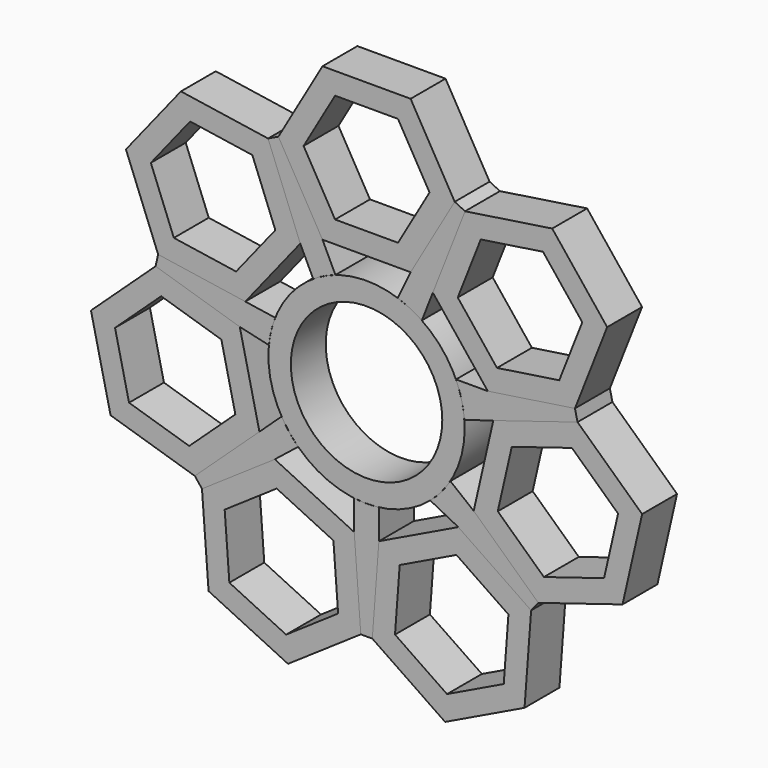
from build123d import *

# Parameters (mm, degrees)
F0_R     = 14.2875
F0_R_2   = 11.0236
F2_DEPTH = 6.35


with BuildPart() as f2:
    # F0 (on Front) → F2 (new body)
    with BuildSketch(Plane.XZ):
        Circle(F0_R)
        Circle(F0_R_2, mode=Mode.SUBTRACT)
    extrude(amount=F2_DEPTH)


with BuildPart() as f2b:
    # F0 (on Front) → F2, piece 2 (new body)
    with BuildSketch(Plane.XZ):
        Polygon((-6.4158048664, 17.4625), (6.4158048664, 17.4625), (12.8316097327, 28.575), (6.4158048664, 39.6875), (-6.4158048664, 39.6875), (-12.8316097327, 28.575), align=None)
        Polygon((9.1654355234, 28.575), (4.5827177617, 20.6375), (-4.5827177617, 20.6375), (-9.1654355234, 28.575), (-4.5827177617, 36.5125), (4.5827177617, 36.5125), align=None, mode=Mode.SUBTRACT)
    extrude(amount=F2_DEPTH)


with BuildPart() as f2c:
    # F0 (on Front) → F2, piece 3 (new body)
    with BuildSketch(Plane.XZ):
        Polygon((-9.6525433577, 15.9037688949), (-14.3404568017, 27.8483775479), (-27.0287480556, 29.7608297412), (-35.0291258653, 19.7286732814), (-30.3412124213, 7.7840646283), (-17.6529211675, 5.8716124351), align=None)
        Polygon((-16.6262790331, 24.9820471308), (-13.2777694302, 16.4501838072), (-18.9923250086, 9.2843577645), (-28.0553901899, 10.6503950454), (-31.4038997928, 19.182258369), (-25.6893442144, 26.3480844117), align=None, mode=Mode.SUBTRACT)
    extrude(amount=F2_DEPTH)


with BuildPart() as f2d:
    # F0 (on Front) → F2, piece 4 (new body)
    with BuildSketch(Plane.XZ):
        Polygon((-18.4523295574, 2.3691754341), (-30.7138668725, 6.1513587989), (-40.1201024057, -2.5763523231), (-37.2648006238, -15.0862468097), (-25.0032633087, -18.8684301745), (-15.5970277755, -10.1407190525), align=None)
        Polygon((-29.8980663634, 2.5771032312), (-21.139825424, -0.124456315), (-19.1003241513, -9.060095234), (-25.8190638178, -15.2941746069), (-34.5773047571, -12.5926150606), (-36.6168060299, -3.6569761416), align=None, mode=Mode.SUBTRACT)
    extrude(amount=F2_DEPTH)


with BuildPart() as f2e:
    # F0 (on Front) → F2, piece 5 (new body)
    with BuildSketch(Plane.XZ):
        Polygon((-13.3571352415, -12.9494554509), (-23.9591087396, -20.1777585906), (-23.0002013434, -32.97348854), (-11.4393204491, -38.5409153497), (-0.837346951, -31.31261221), (-1.7962543472, -18.5168822606), align=None)
        Polygon((-20.6559999126, -21.7684519648), (-13.0831616997, -16.6053782936), (-4.8253896324, -20.5821117291), (-4.1404557779, -29.7219188358), (-11.7132939909, -34.8849925071), (-19.9710660582, -30.9082590715), align=None, mode=Mode.SUBTRACT)
    extrude(amount=F2_DEPTH)


with BuildPart() as f2f:
    # F0 (on Front) → F2, piece 6 (new body)
    with BuildSketch(Plane.XZ):
        Polygon((1.7962543472, -18.5168822606), (0.837346951, -31.31261221), (11.4393204491, -38.5409153497), (23.0002013434, -32.97348854), (23.9591087396, -20.1777585906), (13.3571352415, -12.9494554509), align=None)
        Polygon((4.1404557779, -29.7219188358), (4.8253896324, -20.5821117291), (13.0831616997, -16.6053782936), (20.6559999126, -21.7684519648), (19.9710660582, -30.9082590715), (11.7132939909, -34.8849925071), align=None, mode=Mode.SUBTRACT)
    extrude(amount=F2_DEPTH)


with BuildPart() as f2g:
    # F0 (on Front) → F2, piece 7 (new body)
    with BuildSketch(Plane.XZ):
        Polygon((15.5970277755, -10.1407190525), (25.0032633087, -18.8684301745), (37.2648006238, -15.0862468097), (40.1201024057, -2.5763523231), (30.7138668725, 6.1513587989), (18.4523295574, 2.3691754341), align=None)
        Polygon((25.8190638178, -15.2941746069), (19.1003241513, -9.060095234), (21.139825424, -0.124456315), (29.8980663634, 2.5771032312), (36.6168060299, -3.6569761416), (34.5773047571, -12.5926150606), align=None, mode=Mode.SUBTRACT)
    extrude(amount=F2_DEPTH)


with BuildPart() as f2h:
    # F0 (on Front) → F2, piece 8 (new body)
    with BuildSketch(Plane.XZ):
        Polygon((17.6529211675, 5.8716124351), (30.3412124213, 7.7840646283), (35.0291258653, 19.7286732814), (27.0287480556, 29.7608297412), (14.3404568017, 27.8483775479), (9.6525433577, 15.9037688949), align=None)
        Polygon((28.0553901899, 10.6503950454), (18.9923250086, 9.2843577645), (13.2777694302, 16.4501838072), (16.6262790331, 24.9820471308), (25.6893442144, 26.3480844117), (31.4038997928, 19.182258369), align=None, mode=Mode.SUBTRACT)
    extrude(amount=F2_DEPTH)


with BuildPart() as f2i:
    # F1 (on Front) → F2, piece 9 (new body)
    with BuildSketch(Plane.XZ):
        Polygon((-18.4523295574, 2.3691754341), (-17.6529211675, 5.8716124351), (-23.9970658214, 6.827838385), (-30.3412124213, 7.7840646283), (-30.7138668725, 6.1513587989), (-24.583098291, 4.26026714), align=None)
        with BuildLine():
            ThreePointArc((-14.2184648482, 1.4028234428), (-13.8914038987, 3.3408911946), (-13.3014573203, 5.2157347907))
            Line((-13.3014573203, 5.2157347907), (-17.6529211675, 5.8716124351))
            Line((-17.6529211675, 5.8716124351), (-18.4523295574, 2.3691754341))
            Line((-18.4523295574, 2.3691754341), (-14.2184648482, 1.4028234428))
        make_face()
    extrude(amount=F2_DEPTH)


with BuildPart() as f2j:
    # F1 (on Front) → F2, piece 10 (new body)
    with BuildSketch(Plane.XZ):
        Polygon((-6.4158048664, 17.4625), (-9.6237072576, 23.0187499274), (-12.8316097327, 28.575), (-14.3404568017, 27.8483775479), (-11.9965000414, 21.8760731238), (-9.6525433577, 15.9037688949), align=None)
        with BuildLine():
            ThreePointArc((-7.768296299, 11.991089561), (-6.1991139226, 12.8725927002), (-4.5315578077, 13.5498206662))
            Line((-4.5315578077, 13.5498206662), (-6.4158048664, 17.4625))
            Line((-6.4158048664, 17.4625), (-9.6525433577, 15.9037688949))
            Line((-9.6525433577, 15.9037688949), (-7.768296299, 11.991089561))
        make_face()
    extrude(amount=F2_DEPTH)


with BuildPart() as f2k:
    # F1 (on Front) → F2, piece 11 (new body)
    with BuildSketch(Plane.XZ):
        Polygon((9.6525433577, 15.9037688949), (11.9965000952, 21.8760732609), (14.3404568017, 27.8483775479), (12.8316097327, 28.575), (9.623707221, 23.018749864), (6.4158048664, 17.4625), align=None)
        with BuildLine():
            Line((8.0448181359, 11.8073518373), (9.6525433577, 15.9037688949))
            Line((9.6525433577, 15.9037688949), (6.4158048664, 17.4625))
            Line((6.4158048664, 17.4625), (4.5315578077, 13.5498206662))
            ThreePointArc((4.5315578077, 13.5498206662), (6.3482562467, 12.7996991713), (8.0448181359, 11.8073518373))
        make_face()
    extrude(amount=F2_DEPTH)


with BuildPart() as f2l:
    # F1 (on Front) → F2, piece 12 (new body)
    with BuildSketch(Plane.XZ):
        Polygon((17.6529211675, 5.8716124351), (18.4523295574, 2.3691754341), (24.583098204, 4.2602671131), (30.7138668725, 6.1513587989), (30.3412124213, 7.7840646283), (23.9970657427, 6.8278383732), align=None)
        with BuildLine():
            Line((14.2472214565, 1.0720713682), (18.4523295574, 2.3691754341))
            Line((18.4523295574, 2.3691754341), (17.6529211675, 5.8716124351))
            Line((17.6529211675, 5.8716124351), (13.0252379503, 5.8716124351))
            ThreePointArc((13.0252379503, 5.8716124351), (13.8457812758, 3.5251946205), (14.2472214565, 1.0720713682))
        make_face()
    extrude(amount=F2_DEPTH)


with BuildPart() as f2m:
    # F1 (on Front) → F2, piece 13 (new body)
    with BuildSketch(Plane.XZ):
        Polygon((25.0032633087, -18.8684301745), (20.3001454143, -14.5045744949), (15.5970277755, -10.1407190525), (13.3571352415, -12.9494554509), (18.6581221223, -16.5636071106), (23.9591087396, -20.1777585906), align=None)
        with BuildLine():
            Line((13.3571352415, -12.9494554509), (15.5970277755, -10.1407190525))
            Line((15.5970277755, -10.1407190525), (12.2017318969, -7.4330609419))
            ThreePointArc((12.2017318969, -7.4330609419), (10.8775349791, -9.2634706794), (9.2813687339, -10.8622672898))
            Line((9.2813687339, -10.8622672898), (13.3571352415, -12.9494554509))
        make_face()
    extrude(amount=F2_DEPTH)


with BuildPart() as f2n:
    # F1 (on Front) → F2, piece 14 (new body)
    with BuildSketch(Plane.XZ):
        Polygon((0.837346951, -31.31261221), (1.3168006488, -24.9147472398), (1.7962543472, -18.5168822606), (-1.7962543472, -18.5168822606), (-1.3168006489, -24.9147472385), (-0.837346951, -31.31261221), align=None)
        with BuildLine():
            Line((-1.7962543472, -18.5168822606), (1.7962543472, -18.5168822606))
            Line((1.7962543472, -18.5168822606), (1.7962543472, -14.1741358315))
            ThreePointArc((1.7962543472, -14.1741358315), (0, -14.2875), (-1.7962543472, -14.1741358315))
            Line((-1.7962543472, -14.1741358315), (-1.7962543472, -18.5168822606))
        make_face()
    extrude(amount=F2_DEPTH)


with BuildPart() as f2o:
    # F1 (on Front) → F2, piece 15 (new body)
    with BuildSketch(Plane.XZ):
        Polygon((-23.9591087396, -20.1777585906), (-18.6581221549, -16.5636071328), (-13.3571352415, -12.9494554509), (-15.5970277755, -10.1407190525), (-20.3001455485, -14.5045746194), (-25.0032633087, -18.8684301745), align=None)
        with BuildLine():
            Line((-13.3571352415, -12.9494554509), (-9.9618393628, -10.2417973403))
            ThreePointArc((-9.9618393628, -10.2417973403), (-11.2731625797, -8.7777253147), (-12.3711486526, -7.1475406445))
            Line((-12.3711486526, -7.1475406445), (-15.5970277755, -10.1407190525))
            Line((-15.5970277755, -10.1407190525), (-13.3571352415, -12.9494554509))
        make_face()
    extrude(amount=F2_DEPTH)


solid = Compound([f2.part, f2b.part, f2c.part, f2d.part, f2e.part, f2f.part, f2g.part, f2h.part, f2i.part, f2j.part, f2k.part, f2l.part, f2m.part, f2n.part, f2o.part])
